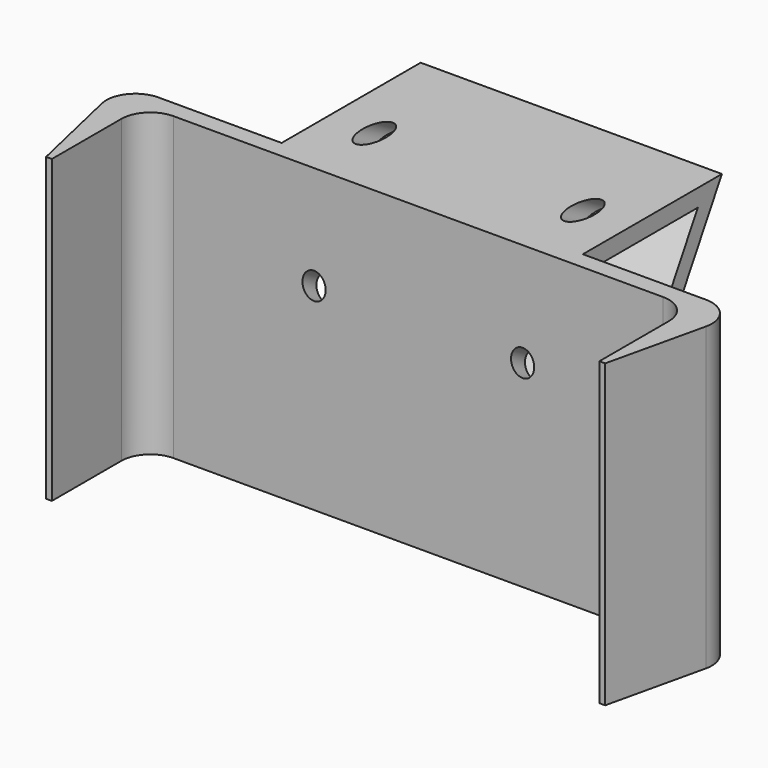
from build123d import *

# Parameters (mm, degrees)
PAD_DEPTH    = 51.96
PAD001_DEPTH = 26
SKETCH002_R  = 2
POCKET_DEPTH = 45.899584
FILLET_R     = 3


with BuildPart() as part:
    # Sketch → Pad (new body)
    with BuildSketch(Plane.XY):
        with BuildLine():
            Line((-48.25, -23), (-52.123371, -6.118146))
            ThreePointArc((-47.25, 0), (-51.160929, -1.884774), (-52.123371, -6.118146))
            Line((-47.25, 0), (47.25, 0))
            ThreePointArc((52.123371, -6.118146), (51.160929, -1.884774), (47.25, 0))
            Line((52.123371, -6.118146), (48.25, -23))
            Line((48.25, -23), (47.25, -23))
            Line((47.25, -23), (47.25, -8))
            ThreePointArc((47.25, -8), (45.785534, -4.464466), (42.25, -3))
            Line((42.25, -3), (-42.25, -3))
            ThreePointArc((-42.25, -3), (-45.785534, -4.464466), (-47.25, -8))
            Line((-47.25, -8), (-47.25, -23))
            Line((-47.25, -23), (-48.25, -23))
        make_face()
    extrude(amount=PAD_DEPTH)

    # Sketch001 → Pad001 (join, symmetric)
    with BuildSketch(Plane.YZ):
        Polygon((0, 51.96), (29.99912, 51.96), (0, 0), (0, 6), (24.802968, 48.96), (0, 48.96), align=None)
    extrude(amount=PAD001_DEPTH, both=True)

    # Sketch002 (on Face15 of Pad001) → Pocket (cut, through all)
    with BuildSketch(Plane(origin=(0, 0, 0), x_dir=(-1, 0, 0), z_dir=(0, 0.866025, -0.5))):
        with Locations((-18, 49.99824)):
            Circle(SKETCH002_R)
        with Locations((18, 49.99824)):
            Circle(SKETCH002_R)
        with Locations((-18, 27.99824)):
            Circle(SKETCH002_R)
        with Locations((18, 27.99824)):
            Circle(SKETCH002_R)
    extrude(amount=-POCKET_DEPTH, mode=Mode.SUBTRACT)

    # Fillet
    fillet_edges = [part.edges().sort_by_distance(p)[0] for p in [
        (0, 0, 48.96),
        (0, 0, 6),
    ]]
    fillet(fillet_edges, radius=FILLET_R)


solid = part.part
